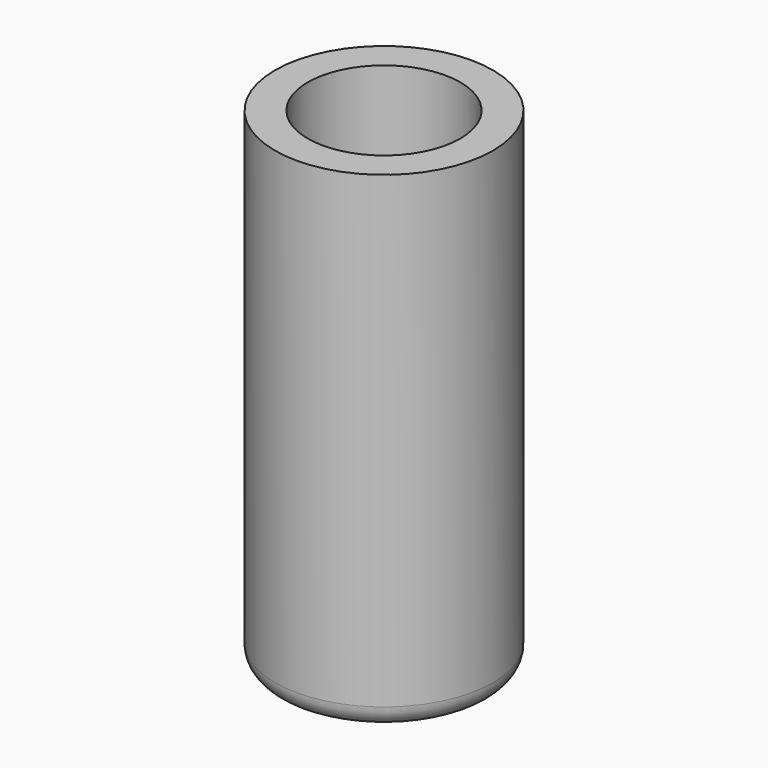
from build123d import *

# Parameters (mm, degrees)
F0_R     = 25.4
F1_DEPTH = 76.2
F2_R     = 5.08
F3_R     = 17.78
F4_DEPTH = 50.8
F5_DEPTH = 38.1


with BuildPart() as f1:
    # F0 (on Top) → F1 (new body)
    with BuildSketch(Plane.XY):
        with Locations((4.0060626761, 0)):
            Circle(F0_R)
    extrude(amount=F1_DEPTH)

    # F2
    f2_edges = [f1.edges().sort_by_distance(p)[0] for p in [
        (-21.393937, 0, 0),
    ]]
    fillet(f2_edges, radius=F2_R)

    # F3 (on face) → F4 (cut)
    with BuildSketch(Plane.XY.offset(76.2)):
        with Locations((4.0060626761, 0)):
            Circle(F3_R)
    extrude(amount=-F4_DEPTH, mode=Mode.SUBTRACT)

    # F5 (add): a face of the model
    f5_faces = [f1.faces().sort_by_distance(p)[0] for p in [
        (-20.6755168342, 0, 76.2),
    ]]
    extrude(f5_faces, amount=F5_DEPTH)


solid = f1.part
